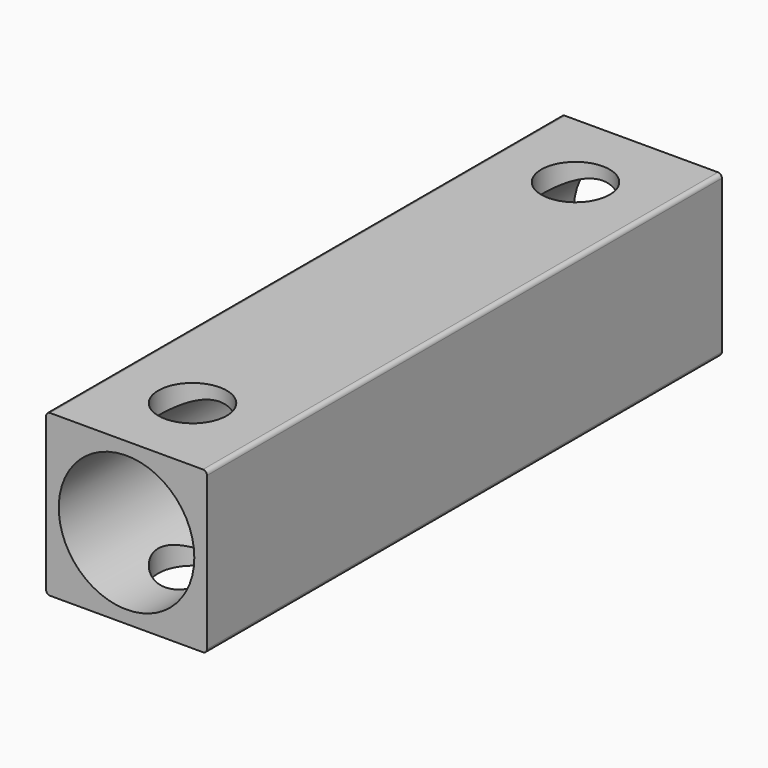
from build123d import *

# Parameters (mm, degrees)
F0_R     = 16.85
F1_DEPTH = 160
F3_D     = 17


with BuildPart() as f1:
    # F0 (on Front) → F1 (new body)
    with BuildSketch(Plane.XZ):
        with BuildLine():
            Line((19, 20), (-19, 20))
            ThreePointArc((-19, 20), (-19.707107, 19.707107), (-20, 19))
            Line((-20, 19), (-20, -19))
            ThreePointArc((-20, -19), (-19.707107, -19.707107), (-19, -20))
            Line((-19, -20), (19, -20))
            ThreePointArc((19, -20), (19.707107, -19.707107), (20, -19))
            Line((20, -19), (20, 19))
            ThreePointArc((20, 19), (19.707107, 19.707107), (19, 20))
        make_face()
        Circle(F0_R, mode=Mode.SUBTRACT)
    extrude(amount=F1_DEPTH)

    # F3 (through all)
    with Locations(Plane.XY.offset(20)):
        with Locations((0, -20.5), (0, -139.5)):
            Hole(F3_D / 2)


solid = f1.part
